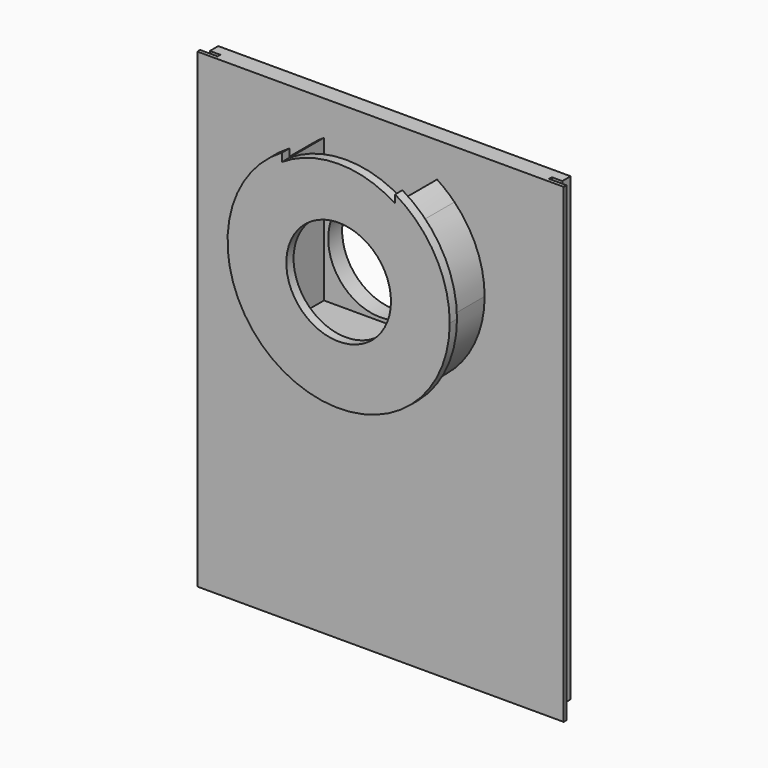
from build123d import *

# Parameters (mm, degrees)
F0_W     = 3.81
F0_H     = 167.64
F0_W_2   = 120.65
F1_DEPTH = 5.08
F0_H_2   = 3.81
F2_DEPTH = 1.27
F3_DEPTH = 1.27
F4_DEPTH = 1.27
F5_W     = 41.148
F5_H     = 6.35
F5_H_2   = 40.64
F5_R     = 19.05
F6_DEPTH = 19.05
F7_DEPTH = 15.748
F8_DEPTH = 6.35


with BuildPart() as f1:
    # F0 (on Front) → F1 (new body)
    with BuildSketch(Plane.XZ):
        with Locations((-97.4510958609, -137.2491913055)):
            Rectangle(F0_W, F0_H)
        with Locations((-35.2210958609, -137.2491913055)):
            Rectangle(F0_W_2, F0_H)
        with Locations((27.0089041391, -137.2491913055)):
            Rectangle(F0_W, F0_H)
    extrude(amount=-F1_DEPTH)

    # F0 (on Front) → F2 (join)
    with BuildSketch(Plane.XZ):
        with Locations((-35.2210958609, -222.9741913055)):
            Rectangle(F0_W_2, F0_H_2)
    extrude(amount=-F2_DEPTH)

    # F0 (on Front) → F3 (cut)
    with BuildSketch(Plane.XZ):
        with Locations((-97.4510958609, -137.2491913055)):
            Rectangle(F0_W, F0_H)
        with Locations((27.0089041391, -137.2491913055)):
            Rectangle(F0_W, F0_H)
    extrude(amount=-F3_DEPTH, mode=Mode.SUBTRACT)

    # F0 (on Front) → F4 (join)
    with BuildSketch(Plane.XZ):
        Polygon((-99.3560958609, -221.0691913055), (-99.3560958609, -53.4291913055), (-101.8960958609, -53.4291913055), (-101.8960958609, -224.8791913055), (-95.5460958609, -224.8791913055), (-95.5460958609, -221.0691913055), align=None)
        with Locations((-97.4510958609, -137.2491913055)):
            Rectangle(F0_W, F0_H)
        with Locations((-35.2210958609, -137.2491913055)):
            Rectangle(F0_W_2, F0_H)
        with Locations((-35.2210958609, -222.9741913055)):
            Rectangle(F0_W_2, F0_H_2)
        with Locations((27.0089041391, -137.2491913055)):
            Rectangle(F0_W, F0_H)
        Polygon((31.4539041391, -53.4291913055), (28.9139041391, -53.4291913055), (28.9139041391, -221.0691913055), (25.1039041391, -221.0691913055), (25.1039041391, -224.8791913055), (31.4539041391, -224.8791913055), align=None)
    extrude(amount=F4_DEPTH)

    # F5 (on face) → F6 (join)
    with BuildSketch(Plane.XZ.offset(1.27)):
        with BuildLine():
            Line((-14.6470958609, -71.2091913055), (-14.6470958609, -66.0530825267))
            ThreePointArc((-14.6470958609, -66.0530825267), (-35.2210958609, -59.9820848724), (-55.7950958609, -66.0530825267))
            Line((-55.7950958609, -66.0530825267), (-55.7950958609, -71.2091913055))
            Line((-55.7950958609, -71.2091913055), (-14.6470958609, -71.2091913055))
        make_face()
        with Locations((-35.2210958609, -74.3841913055)):
            Rectangle(F5_W, F5_H)
        with Locations((-35.2210958609, -97.8791913055)):
            Rectangle(F5_W, F5_H_2)
        with Locations((-35.2210958609, -97.8791913055)):
            Circle(F5_R, mode=Mode.SUBTRACT)
        with BuildLine():
            Line((-55.7950958609, -71.2091913055), (-55.7950958609, -66.0530825267))
            ThreePointArc((-55.7950958609, -66.0530825267), (-59.109615393, -68.4593117924), (-62.1450958609, -71.2091913055))
            Line((-62.1450958609, -71.2091913055), (-55.7950958609, -71.2091913055))
        make_face()
        with BuildLine():
            ThreePointArc((-62.1450958609, -71.2091913055), (-73.118202294, -97.8791913055), (-62.1450958609, -124.5491913055))
            Line((-62.1450958609, -124.5491913055), (-62.1450958609, -71.2091913055))
        make_face()
        with BuildLine():
            Line((-14.6470958609, -71.2091913055), (-8.2970958609, -71.2091913055))
            ThreePointArc((-8.2970958609, -71.2091913055), (-11.3325763288, -68.4593117924), (-14.6470958609, -66.0530825267))
            Line((-14.6470958609, -66.0530825267), (-14.6470958609, -71.2091913055))
        make_face()
        Polygon((-8.2970958609, -124.5491913055), (-8.2970958609, -71.2091913055), (-14.6470958609, -71.2091913055), (-14.6470958609, -77.5591913055), (-14.6470958609, -118.1991913055), (-55.7950958609, -118.1991913055), (-55.7950958609, -77.5591913055), (-55.7950958609, -71.2091913055), (-62.1450958609, -71.2091913055), (-62.1450958609, -124.5491913055), align=None)
        with BuildLine():
            ThreePointArc((-8.2970958609, -124.5491913055), (-0.1744671385, -112.298778373), (2.6760105722, -97.8791913055))
            ThreePointArc((2.6760105722, -97.8791913055), (-0.1744671385, -83.459604238), (-8.2970958609, -71.2091913055))
            Line((-8.2970958609, -71.2091913055), (-8.2970958609, -124.5491913055))
        make_face()
        with BuildLine():
            ThreePointArc((-62.1450958609, -124.5491913055), (-35.2210958609, -135.7762977386), (-8.2970958609, -124.5491913055))
            Line((-8.2970958609, -124.5491913055), (-62.1450958609, -124.5491913055))
        make_face()
        with BuildLine():
            ThreePointArc((-8.2970958609, -71.2091913055), (-0.1744671385, -83.459604238), (2.6760105722, -97.8791913055))
            ThreePointArc((2.6760105722, -97.8791913055), (-0.1744671385, -112.298778373), (-8.2970958609, -124.5491913055))
            ThreePointArc((-8.2970958609, -124.5491913055), (-35.2210958609, -135.7762977386), (-62.1450958609, -124.5491913055))
            ThreePointArc((-62.1450958609, -124.5491913055), (-73.118202294, -97.8791913055), (-62.1450958609, -71.2091913055))
            ThreePointArc((-62.1450958609, -71.2091913055), (-59.109615393, -68.4593117924), (-55.7950958609, -66.0530825267))
            Line((-55.7950958609, -66.0530825267), (-55.7950958609, -63.0672666147))
            ThreePointArc((-55.7950958609, -63.0672666147), (-55.2611376389, -133.0012114954), (5.2160105722, -97.8791913055))
            ThreePointArc((5.2160105722, -97.8791913055), (-0.099075671, -77.8391495275), (-14.6470958609, -63.0672666147))
            Line((-14.6470958609, -63.0672666147), (-14.6470958609, -66.0530825267))
            ThreePointArc((-14.6470958609, -66.0530825267), (-11.3325763288, -68.4593117924), (-8.2970958609, -71.2091913055))
        make_face()
    extrude(amount=F6_DEPTH)

    # F5 (on face) → F7 (cut)
    with BuildSketch(Plane.XZ.offset(1.27)):
        with Locations((-35.2210958609, -97.8791913055)):
            Rectangle(F5_W, F5_H_2)
        with Locations((-35.2210958609, -97.8791913055)):
            Circle(F5_R, mode=Mode.SUBTRACT)
        with Locations((-35.2210958609, -74.3841913055)):
            Rectangle(F5_W, F5_H)
        with BuildLine():
            Line((-14.6470958609, -71.2091913055), (-14.6470958609, -66.0530825267))
            ThreePointArc((-14.6470958609, -66.0530825267), (-35.2210958609, -59.9820848724), (-55.7950958609, -66.0530825267))
            Line((-55.7950958609, -66.0530825267), (-55.7950958609, -71.2091913055))
            Line((-55.7950958609, -71.2091913055), (-14.6470958609, -71.2091913055))
        make_face()
        with BuildLine():
            ThreePointArc((-55.7950958609, -66.0530825267), (-35.2210958609, -59.9820848724), (-14.6470958609, -66.0530825267))
            Line((-14.6470958609, -66.0530825267), (-14.6470958609, -63.0672666147))
            ThreePointArc((-14.6470958609, -63.0672666147), (-35.2210958609, -57.4420848724), (-55.7950958609, -63.0672666147))
            Line((-55.7950958609, -63.0672666147), (-55.7950958609, -66.0530825267))
        make_face()
        with BuildLine():
            ThreePointArc((-8.2970958609, -71.2091913055), (-0.1744671385, -83.459604238), (2.6760105722, -97.8791913055))
            ThreePointArc((2.6760105722, -97.8791913055), (-0.1744671385, -112.298778373), (-8.2970958609, -124.5491913055))
            ThreePointArc((-8.2970958609, -124.5491913055), (-35.2210958609, -135.7762977386), (-62.1450958609, -124.5491913055))
            ThreePointArc((-62.1450958609, -124.5491913055), (-73.118202294, -97.8791913055), (-62.1450958609, -71.2091913055))
            ThreePointArc((-62.1450958609, -71.2091913055), (-59.109615393, -68.4593117924), (-55.7950958609, -66.0530825267))
            Line((-55.7950958609, -66.0530825267), (-55.7950958609, -63.0672666147))
            ThreePointArc((-55.7950958609, -63.0672666147), (-55.2611376389, -133.0012114954), (5.2160105722, -97.8791913055))
            ThreePointArc((5.2160105722, -97.8791913055), (-0.099075671, -77.8391495275), (-14.6470958609, -63.0672666147))
            Line((-14.6470958609, -63.0672666147), (-14.6470958609, -66.0530825267))
            ThreePointArc((-14.6470958609, -66.0530825267), (-11.3325763288, -68.4593117924), (-8.2970958609, -71.2091913055))
        make_face()
    extrude(amount=F7_DEPTH, mode=Mode.SUBTRACT)

    # F5 (on face) → F8 (cut)
    with BuildSketch(Plane.XZ.offset(1.27)):
        with Locations((-35.2210958609, -97.8791913055)):
            Circle(F5_R)
    extrude(amount=-F8_DEPTH, mode=Mode.SUBTRACT)


solid = f1.part
